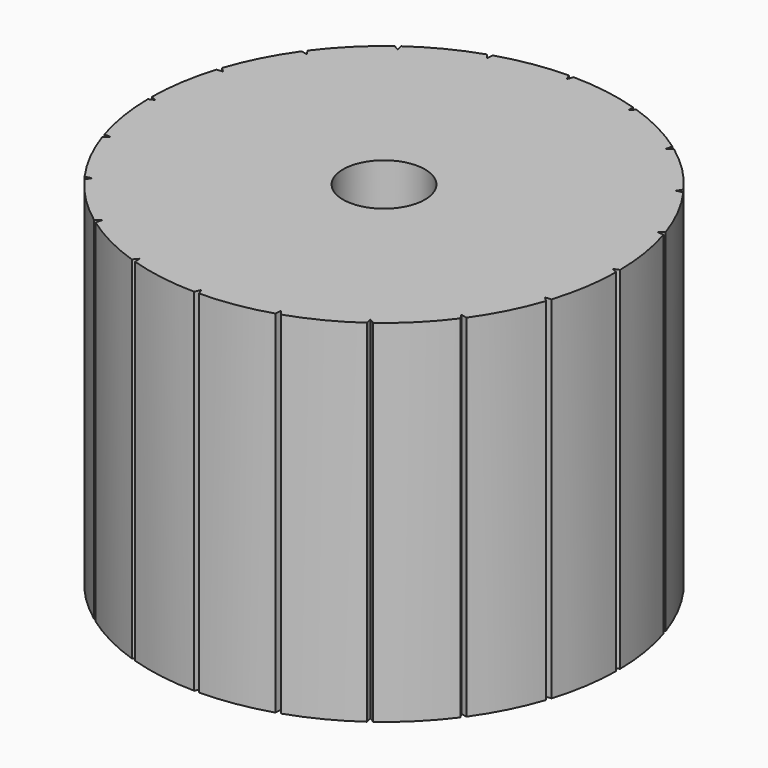
from build123d import *

# Parameters (mm, degrees)
SKETCH_R           = 10
PAD_DEPTH          = 15
POCKET_DEPTH       = 2
SKETCH002_R        = 1.75
POCKET001_DEPTH    = 15.001
POCKET002_DEPTH    = 79.032242
POLARPATTERN_COUNT = 20


with BuildPart() as part:
    # Sketch → Pad (new body)
    with BuildSketch(Plane.XY):
        Circle(SKETCH_R)
    extrude(amount=PAD_DEPTH)

    # Sketch001 → Pocket (cut)
    with BuildSketch(Plane.XY.offset(3)):
        Polygon((4.618802, 0), (2.309401, 4), (-2.309401, 4), (-4.618802, 0), (-2.309401, -4), (2.309401, -4), align=None)
    extrude(amount=POCKET_DEPTH, mode=Mode.SUBTRACT)

    # Sketch002 → Pocket001 (cut, through all)
    with BuildSketch(Plane.XY):
        Circle(SKETCH002_R)
    extrude(amount=POCKET001_DEPTH, mode=Mode.SUBTRACT)

    # Sketch003 → Pocket002 (cut, through all)
    with BuildSketch(Plane.XY):
        Polygon((-0.206247, 10.247925), (0.206247, 10.247925), (0, 9.75), align=None)
    pocket002 = extrude(amount=POCKET002_DEPTH, mode=Mode.SUBTRACT)

    # PolarPattern: Pocket002 ×20 about axis
    polarpattern_axis = Axis((0, 0, 0), (0, 0, 1))
    for i in range(1, POLARPATTERN_COUNT):
        add(pocket002.rotate(polarpattern_axis, i * 360 / POLARPATTERN_COUNT), mode=Mode.SUBTRACT)


solid = part.part
